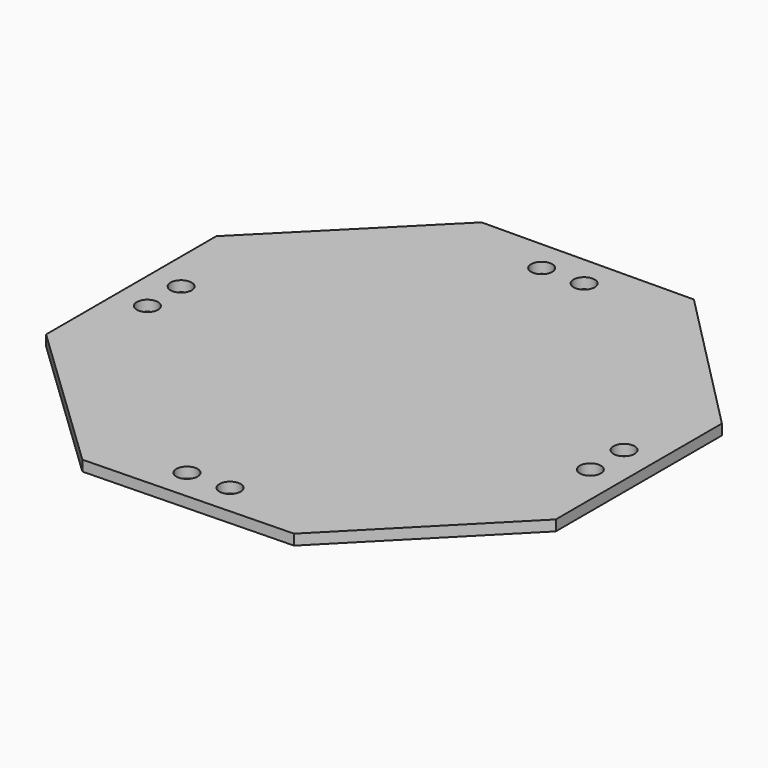
from build123d import *

# Parameters (mm, degrees)
F1_DEPTH = 1.5875
F2_R     = 3.175
F3_DEPTH = 3.176


with BuildPart() as f1:
    # F0 (on Top) → F1 (new body, symmetric)
    with BuildSketch(Plane.XY):
        Polygon((76.2, -31.2657933708), (76.2, 31.2657933708), (31.5991683182, 76.4655258179), (-31.9008316818, 75.9372385012), (-76.2, 31.4872385012), (-76.2, -32.5658159349), (-29.7164364601, -77.0158159349), (32.6911213348, -75.3589100367), align=None)
    extrude(amount=F1_DEPTH, both=True)

    # F2 (on face) → F3 (cut, through all)
    with BuildSketch(Plane.XY.offset(1.5875)):
        with Locations((-66.675, 6.35)):
            Circle(F2_R)
        with Locations((-66.675, -6.35)):
            Circle(F2_R)
        with Locations((6.35, -66.5299041307)):
            Circle(F2_R)
        with Locations((-6.35, -66.8670861268)):
            Circle(F2_R)
        with Locations((66.675, -6.35)):
            Circle(F2_R)
        with Locations((66.675, 6.35)):
            Circle(F2_R)
        with Locations((6.35, 66.730136108)):
            Circle(F2_R)
        with Locations((-6.35, 66.6244786446)):
            Circle(F2_R)
    extrude(amount=-F3_DEPTH, mode=Mode.SUBTRACT)


solid = f1.part
